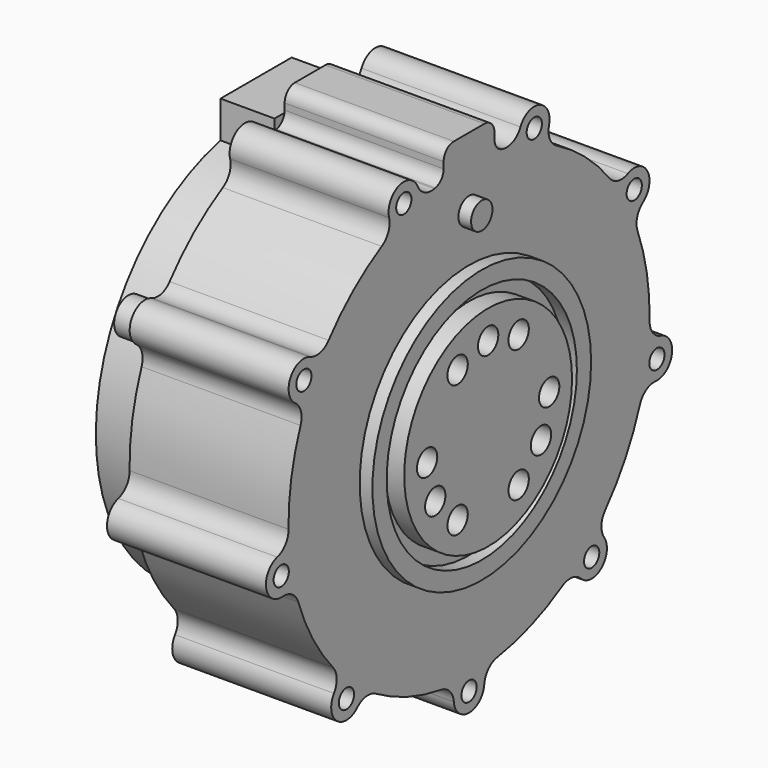
from build123d import *

# Parameters (mm, degrees)
SKETCH009_R        = 16.5
SKETCH009_R_2      = 2
PAD006_DEPTH       = 3
SKETCH010_R        = 1.5
PAD007_DEPTH       = 25
POLARPATTERN_COUNT = 9
PAD008_DEPTH       = 25
SKETCH012_R        = 21.5
SKETCH012_R_2      = 18.7
SKETCH012_R_3      = 2.1
PAD009_DEPTH       = 2
PAD010_DEPTH       = 8.5
SKETCH014_R        = 2.8
PAD011_DEPTH       = 2.6


with BuildPart() as part:
    # Sketch009 → Pad006 (new body)
    with BuildSketch(Plane.YZ):
        Circle(SKETCH009_R)
        with Locations((0, 12)):
            Circle(SKETCH009_R_2, mode=Mode.SUBTRACT)
        with Locations((-6, 10.392305)):
            Circle(SKETCH009_R_2, mode=Mode.SUBTRACT)
        with Locations((6, 10.392305)):
            Circle(SKETCH009_R_2, mode=Mode.SUBTRACT)
        with Locations((12, 0)):
            Circle(SKETCH009_R_2, mode=Mode.SUBTRACT)
        with Locations((10.392305, -6)):
            Circle(SKETCH009_R_2, mode=Mode.SUBTRACT)
        with Locations((6, -10.392305)):
            Circle(SKETCH009_R_2, mode=Mode.SUBTRACT)
        with Locations((-6, -10.392305)):
            Circle(SKETCH009_R_2, mode=Mode.SUBTRACT)
        with Locations((-10.392305, -6)):
            Circle(SKETCH009_R_2, mode=Mode.SUBTRACT)
        with Locations((-12, 0)):
            Circle(SKETCH009_R_2, mode=Mode.SUBTRACT)
    extrude(amount=PAD006_DEPTH)

    # Sketch010 → Pad007 (join)
    with BuildSketch(Plane.YZ):
        with BuildLine():
            ThreePointArc((5.510568, -35.069697), (0, 35.5), (-5.510568, -35.069697))
            ThreePointArc((-2.988125, -37.766667), (-3.785221, -35.984091), (-5.510568, -35.069697))
            ThreePointArc((-2.988125, -37.766667), (0, -40.5), (2.988125, -37.766667))
            ThreePointArc((5.510568, -35.069697), (3.785221, -35.984091), (2.988125, -37.766667))
        make_face()
        with Locations((0, -37.5)):
            Circle(SKETCH010_R, mode=Mode.SUBTRACT)
    pad007 = extrude(amount=-PAD007_DEPTH)

    # PolarPattern: Pad007 ×9 about axis
    polarpattern_axis = Axis((0, 0, 0), (1, 0, 0))
    for i in range(1, POLARPATTERN_COUNT):
        add(pad007.rotate(polarpattern_axis, i * 360 / POLARPATTERN_COUNT))

    # Sketch011 → Pad008 (join)
    with BuildSketch(Plane.YZ):
        with BuildLine():
            ThreePointArc((-6.626667, 34.876027), (-5.459437, 35.565466), (-5, 36.840874))
            Line((-5, 37.840874), (-5, 36.840874))
            ThreePointArc((-3, 39.840874), (-4.414214, 39.255088), (-5, 37.840874))
            Line((-3, 39.840874), (3, 39.840874))
            ThreePointArc((5, 37.840874), (4.414214, 39.255088), (3, 39.840874))
            Line((5, 37.840874), (5, 36.840874))
            ThreePointArc((5, 36.840874), (5.459437, 35.565466), (6.626667, 34.876027))
            ThreePointArc((6.626667, 34.876027), (0, 35.5), (-6.626667, 34.876027))
        make_face()
    extrude(amount=-PAD008_DEPTH)

    # Sketch012 → Pad009 (join)
    with BuildSketch(Plane.YZ):
        Circle(SKETCH012_R)
        Circle(SKETCH012_R_2, mode=Mode.SUBTRACT)
        with Locations((0, 29)):
            Circle(SKETCH012_R_3)
    extrude(amount=PAD009_DEPTH)

    # Sketch013 → Pad010 (join)
    with BuildSketch(Plane.YZ.offset(-25)):
        with BuildLine():
            ThreePointArc((-7, 30.712375), (0, -31.5), (7, 30.712375))
            Line((7, 36.5), (7, 30.712375))
            Line((-7, 36.5), (7, 36.5))
            Line((-7, 30.712375), (-7, 36.5))
        make_face()
    extrude(amount=-PAD010_DEPTH)

    # Sketch014 → Pad011 (join)
    with BuildSketch(Plane.YZ.offset(-25)):
        Circle(SKETCH014_R)
        with Locations((0, -37.5)):
            Circle(SKETCH014_R)
        with Locations((-32.475953, 18.75)):
            Circle(SKETCH014_R)
    extrude(amount=-PAD011_DEPTH)


with BuildPart() as part_1:
    # Body004 placement: moved
    add(part.part.moved(Location((107.2, 0, 107))))


solid = part_1.part
